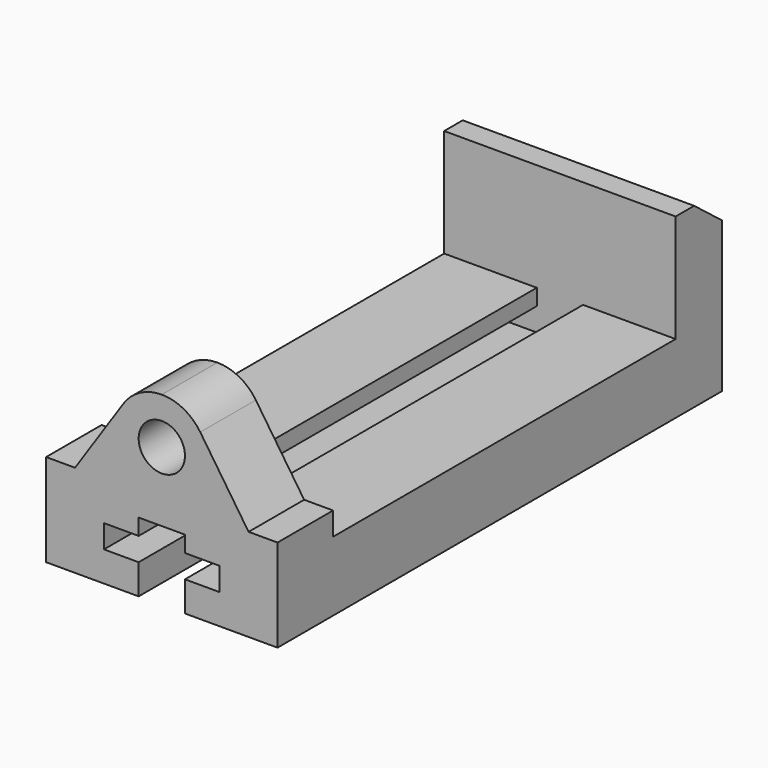
from build123d import *

# Parameters (mm, degrees)
F2_DEPTH = 63.5
F3_DEPTH = 273.05
F0_R     = 12.7
F4_DEPTH = 38.1


with BuildPart() as f2:
    # F1 (on Right) → F2 (new body, symmetric)
    with BuildSketch(Plane.YZ):
        Polygon((0, 101.6), (0, 0), (304.8, 0), (304.8, 82.55), (285.75, 97.29961), (273.05, 97.29961), (273.05, 38.1), (38.1, 38.1), (38.1, 101.6), align=None)
    extrude(amount=F2_DEPTH, both=True)

    # F0 (on Front) → F3 (cut)
    with BuildSketch(Plane.XZ):
        Polygon((-12.7, 16.51), (-12.7, 0), (12.7, 0), (12.7, 16.51), (31.75, 16.51), (31.75, 29.21), (12.7, 29.21), (12.7, 38.1), (-12.7, 38.1), (-12.7, 29.21), (-31.75, 29.21), (-31.75, 16.51), align=None)
    extrude(amount=-F3_DEPTH, mode=Mode.SUBTRACT)

    # F0 (on Front) → F4 (cut)
    with BuildSketch(Plane.XZ):
        with BuildLine():
            Line((-63.5, 101.600022), (-63.5, 50.8))
            Line((-63.5, 50.8), (-47.625, 50.8))
            Line((-47.625, 50.8), (-21.093444, 90.350185))
            ThreePointArc((-21.093444, 90.350185), (-11.952951, 98.611784), (0, 101.600022))
            Line((0, 101.600022), (-63.5, 101.600022))
        make_face()
        with BuildLine():
            Line((47.625, 50.8), (63.5, 50.8))
            Line((63.5, 50.8), (63.5, 101.600022))
            Line((63.5, 101.600022), (0, 101.600022))
            ThreePointArc((0, 101.600022), (11.952951, 98.611784), (21.093444, 90.350185))
            Line((21.093444, 90.350185), (47.625, 50.8))
        make_face()
        with Locations((0, 76.2)):
            Circle(F0_R)
    extrude(amount=-F4_DEPTH, mode=Mode.SUBTRACT)


solid = f2.part
